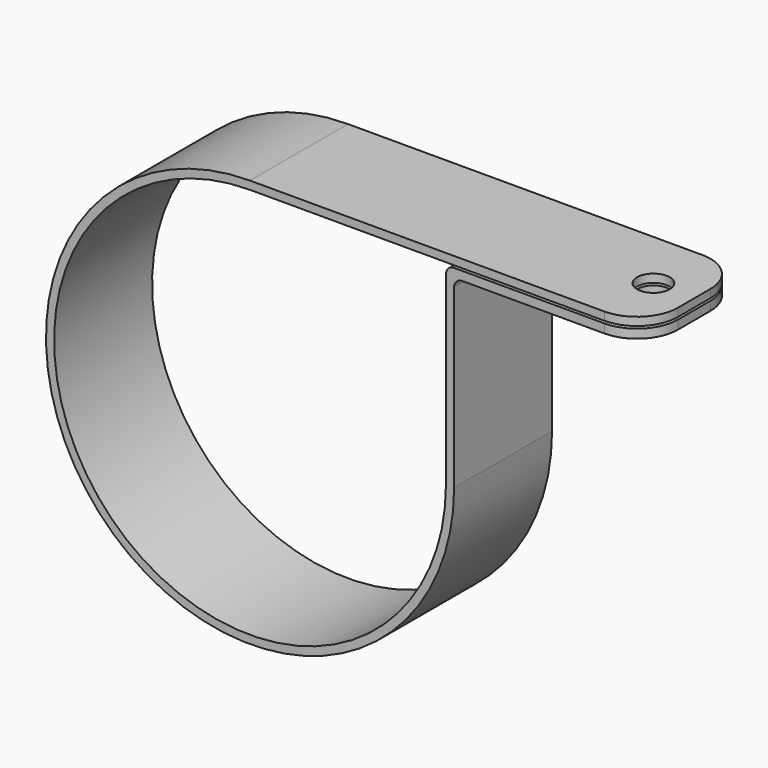
from build123d import *

# Parameters (mm, degrees)
F1_DEPTH = 15
F2_R     = 2
F3_DEPTH = 25


with BuildPart() as f1:
    # F0 (on Front) → F1 (new body)
    with BuildSketch(Plane.XZ):
        with BuildLine():
            Line((48.415434, 25), (0, 25))
            ThreePointArc((0, 25), (-17.67767, -17.67767), (25, 0))
            Line((25, 0), (25, 21.628764))
            ThreePointArc((25, 21.628764), (25.292893, 22.33587), (26, 22.628764))
            Line((26, 22.628764), (48.415434, 22.628764))
            Line((48.415434, 22.628764), (48.415434, 23.714876))
            Line((48.415434, 23.714876), (25, 23.714876))
            ThreePointArc((25, 23.714876), (24.292893, 23.421983), (24, 22.714876))
            Line((24, 22.714876), (24, 7))
            Line((24, 7), (24, 0))
            ThreePointArc((24, 0), (-16.970563, -16.970563), (0, 24))
            Line((0, 24), (7, 24))
            Line((7, 24), (48.415434, 24))
            Line((48.415434, 24), (48.415434, 25))
        make_face()
    extrude(amount=F1_DEPTH)

    # F2 (on face) → F3 (cut)
    with BuildSketch(Plane.XY.offset(25)):
        with BuildLine():
            Line((48.415434, 0), (43.415434, 0))
            ThreePointArc((43.415434, 0), (46.950968, -1.464466), (48.415434, -5))
            Line((48.415434, -5), (48.415434, 0))
        make_face()
        with BuildLine():
            Line((48.415434, -15), (48.415434, -10))
            ThreePointArc((48.415434, -10), (46.950968, -13.535534), (43.415434, -15))
            Line((43.415434, -15), (48.415434, -15))
        make_face()
        with Locations((43.415434, -7.5)):
            Circle(F2_R)
    extrude(amount=-F3_DEPTH, mode=Mode.SUBTRACT)


solid = f1.part
